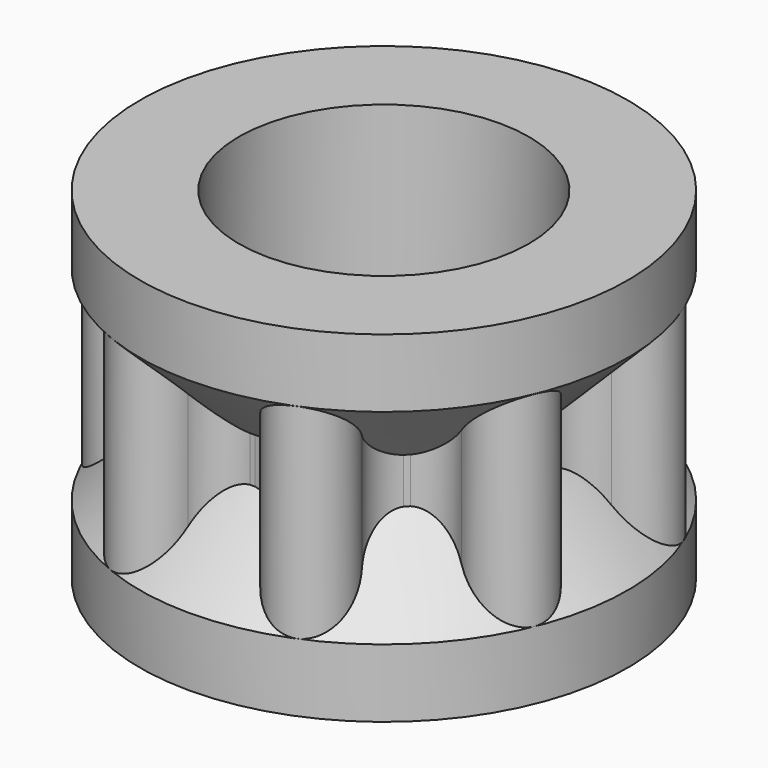
from build123d import *

# Parameters (mm, degrees)
BOX003_W          = 1.5
BOX003_H          = 3.9
BOX003_DEPTH      = 20
CYLINDER004_R     = 0.75
CYLINDER004_DEPTH = 10
BOX002_W          = 3.9
BOX002_H          = 1.5
BOX002_DEPTH      = 20
CYLINDER003_R     = 5.5
CYLINDER003_DEPTH = 4.5
SKETCH003_R       = 5.1
EXTRUDE004_DEPTH  = 6
CHAMFER001_SIZE   = 0.2


with BuildPart() as cube003:
    # Box003 → Box003 (new body)
    with BuildSketch(Plane(origin=(-0.75, -1.95, -2), x_dir=(1, 0, 0), z_dir=(0, 0, 1))):
        with Locations((0.75, 1.95)):
            Rectangle(BOX003_W, BOX003_H)
    extrude(amount=BOX003_DEPTH)


with BuildPart() as cylinder004:
    # Cylinder004 → Cylinder004 (new body)
    with BuildSketch(Plane.XY.offset(-3.5)):
        Circle(CYLINDER004_R)
    extrude(amount=CYLINDER004_DEPTH)


with BuildPart() as fusion003:
    # Box002 → Box002 (new body)
    with BuildSketch(Plane(origin=(-1.95, -0.75, -2), x_dir=(1, 0, 0), z_dir=(0, 0, 1))):
        with Locations((1.95, 0.75)):
            Rectangle(BOX002_W, BOX002_H)
    extrude(amount=BOX002_DEPTH)

    # Fusion003: union Cube003, Cylinder004
    add(cube003.part)
    add(cylinder004.part)


with BuildPart() as revolve_body:
    # Sketch008 → Revolve (revolve)
    with BuildSketch(Plane.YZ):
        Polygon((-8.58, 6), (-8.58, 3.6), (-5.78, 0.8), (-5.78, -0.8), (-8.58, -3.6), (-8.58, -6), (-5.5, -6), (-5.5, 6), align=None)
    revolve(axis=Axis((0, 0, 0), (0, 0, 1)))


with BuildPart() as cylinder003:
    # Cylinder003 → Cylinder003 (new body)
    with BuildSketch(Plane.XY.offset(-4.3)):
        Circle(CYLINDER003_R)
    extrude(amount=CYLINDER003_DEPTH)


with BuildPart() as drivegearchamfered:
    # Sketch003 → Extrude004 (new body, symmetric)
    with BuildSketch(Plane.XY):
        with BuildLine():
            ThreePointArc((1.373099, -6.903037), (0, -5.776163), (-1.373099, -6.903037))
            ThreePointArc((-3.910251, -5.852105), (-3.28196, -7.92334), (-1.373099, -6.903037))
            ThreePointArc((-3.910251, -5.852105), (-4.084365, -4.084363), (-5.852107, -3.910253))
            ThreePointArc((-6.903031, -1.373098), (-7.923342, -3.281956), (-5.852107, -3.910253))
            ThreePointArc((-6.903031, -1.373098), (-5.776163, 0), (-6.903031, 1.373098))
            ThreePointArc((-5.852107, 3.910253), (-7.923342, 3.281956), (-6.903031, 1.373098))
            ThreePointArc((-5.852107, 3.910253), (-4.084363, 4.084365), (-3.910255, 5.85211))
            ThreePointArc((-1.373099, 6.903037), (-3.281957, 7.923341), (-3.910255, 5.85211))
            ThreePointArc((-1.373099, 6.903037), (0, 5.776163), (1.373099, 6.903037))
            ThreePointArc((3.910255, 5.85211), (3.281957, 7.923341), (1.373099, 6.903037))
            ThreePointArc((3.910255, 5.85211), (4.084362, 4.084366), (5.852105, 3.910251))
            ThreePointArc((6.903037, 1.373099), (7.92334, 3.28196), (5.852105, 3.910251))
            ThreePointArc((6.903037, 1.373099), (5.776163, 0), (6.903037, -1.373099))
            ThreePointArc((5.852112, -3.910256), (7.923342, -3.281956), (6.903037, -1.373099))
            ThreePointArc((5.852112, -3.910256), (4.084364, -4.084364), (3.910256, -5.852112))
            ThreePointArc((1.373099, -6.903037), (3.281956, -7.923342), (3.910256, -5.852112))
        make_face()
        Circle(SKETCH003_R, mode=Mode.SUBTRACT)
    extrude(amount=EXTRUDE004_DEPTH, both=True)

    # Fusion002: union Revolve body, Cylinder003
    add(revolve_body.part)
    add(cylinder003.part)

    # Cut001: cut Fusion003
    add(fusion003.part, mode=Mode.SUBTRACT)

    # Chamfer001
    chamfer001_edges = [drivegearchamfered.edges().sort_by_distance(p)[0] for p in [
        (-1.35, -0.75, 0.2),
        (-0.75, -1.35, 0.2),
        (0, -1.95, 0.2),
        (0.75, -1.35, 0.2),
        (1.35, -0.75, 0.2),
        (1.95, 0, 0.2),
        (1.35, 0.75, 0.2),
        (0.75, 1.35, 0.2),
        (0, 1.95, 0.2),
        (-0.75, 1.35, 0.2),
        (-1.35, 0.75, 0.2),
        (-1.95, 0, 0.2),
    ]]
    chamfer(chamfer001_edges, length=CHAMFER001_SIZE)


solid = drivegearchamfered.part
